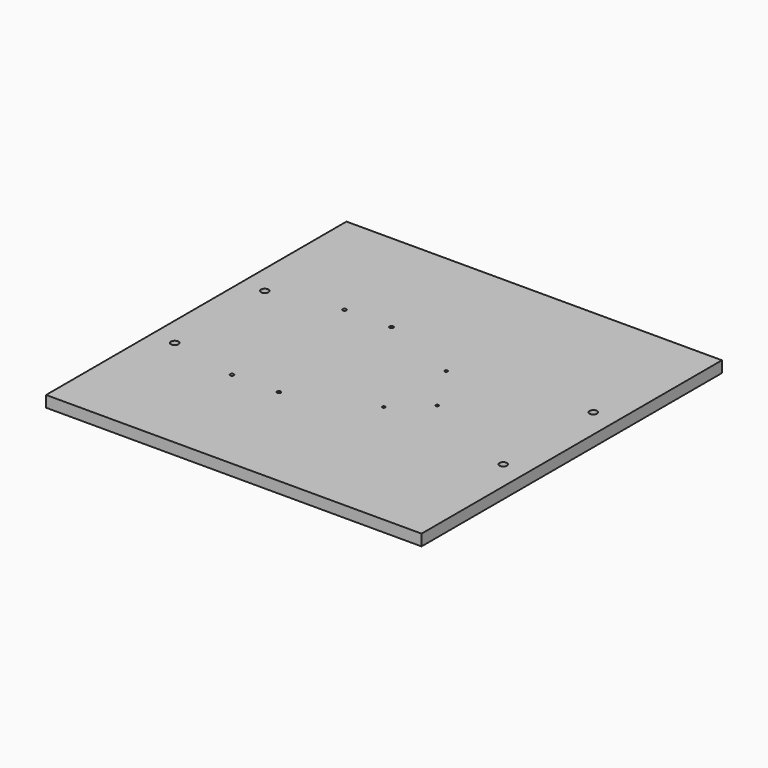
from build123d import *

# Parameters (mm, degrees)
F0_W     = 400
F0_H     = 400
F0_R     = 4
F0_R_2   = 2
F0_R_3   = 1.5
F1_DEPTH = 12


with BuildPart() as f1:
    # F0 (on Top) → F1 (new body)
    with BuildSketch(Plane.XY):
        Rectangle(F0_W, F0_H)
        with Locations((-175, -60)):
            Circle(F0_R, mode=Mode.SUBTRACT)
        with Locations((-102, -75)):
            Circle(F0_R_2, mode=Mode.SUBTRACT)
        with Locations((-52, -75)):
            Circle(F0_R_2, mode=Mode.SUBTRACT)
        with Locations((33, -41.5)):
            Circle(F0_R_3, mode=Mode.SUBTRACT)
        with Locations((66, -11.5)):
            Circle(F0_R_3, mode=Mode.SUBTRACT)
        with Locations((175, -60)):
            Circle(F0_R, mode=Mode.SUBTRACT)
        with Locations((-175, 60)):
            Circle(F0_R, mode=Mode.SUBTRACT)
        with Locations((-102, 75)):
            Circle(F0_R_2, mode=Mode.SUBTRACT)
        with Locations((-52, 75)):
            Circle(F0_R_2, mode=Mode.SUBTRACT)
        with Locations((33, 41.5)):
            Circle(F0_R_3, mode=Mode.SUBTRACT)
        with Locations((175, 60)):
            Circle(F0_R, mode=Mode.SUBTRACT)
    extrude(amount=F1_DEPTH)


solid = f1.part
